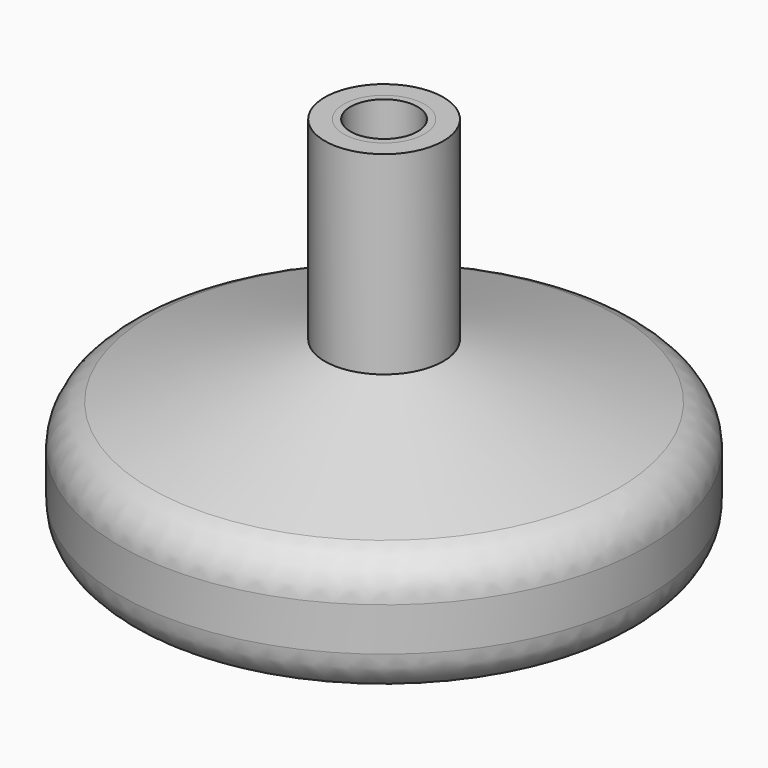
from build123d import *

# Parameters (mm, degrees)
F2_R      = 4.7625
F3_DEPTH  = 9.525
F4_R      = 1.5875
F5_DEPTH  = 9.525
F6_R      = 5.08
F3_FACE_R = 4.7625
F7_DEPTH  = 9.525
F8_R      = 3.954416
F9_DEPTH  = 9.525
F5_FACE_R = 1.5875
F10_DEPTH = 11.43
F11_DEPTH = 19.05


with BuildPart() as f1:
    # F0 (on Front) → F1 (revolve)
    with BuildSketch(Plane.XZ):
        Polygon((3.81, 1.905), (31.115, 9.525), (31.115, 22.225), (6.985, 29.845), (6.985, 52.705), (0, 52.705), (0, 1.905), align=None)
    revolve(axis=Axis((0, 0, 27.305), (0, 0, -1)))

    # F2 (on face) → F3 (cut)
    with BuildSketch(Plane.XY.offset(52.705)):
        Circle(F2_R)
    extrude(amount=-F3_DEPTH, mode=Mode.SUBTRACT)

    # F4 (on face) → F5 (cut)
    with BuildSketch(Plane(origin=(0, 0, 1.905), x_dir=(1, 0, 0), z_dir=(0, 0, -1))):
        Circle(F4_R)
    extrude(amount=-F5_DEPTH, mode=Mode.SUBTRACT)

    # F6
    f6_edges = [f1.edges().sort_by_distance(p)[0] for p in [
        (-31.115, 0, 9.525),
        (-31.115, 0, 22.225),
        (31.115, 0, 15.875),
    ]]
    fillet(f6_edges, radius=F6_R)

    # F3_face (on face) → F11 (cut)
    with BuildSketch(Plane.XY.offset(43.18)):
        Circle(F3_FACE_R)
    extrude(amount=-F11_DEPTH, mode=Mode.SUBTRACT)


with BuildPart() as f7:
    # F3_face (on face) → F7 (new body)
    with BuildSketch(Plane.XY.offset(43.18)):
        Circle(F3_FACE_R)
    extrude(amount=F7_DEPTH)

    # F8 (on face) → F9 (cut)
    with BuildSketch(Plane.XY.offset(52.705)):
        Circle(F8_R)
    extrude(amount=-F9_DEPTH, mode=Mode.SUBTRACT)


with BuildPart() as f10:
    # F5_face (on face) → F10 (new body)
    with BuildSketch(Plane(origin=(0, 0, 11.43), x_dir=(1, 0, 0), z_dir=(0, 0, -1))):
        Circle(F5_FACE_R)
    extrude(amount=F10_DEPTH)


solid = Compound([f1.part, f7.part, f10.part])
